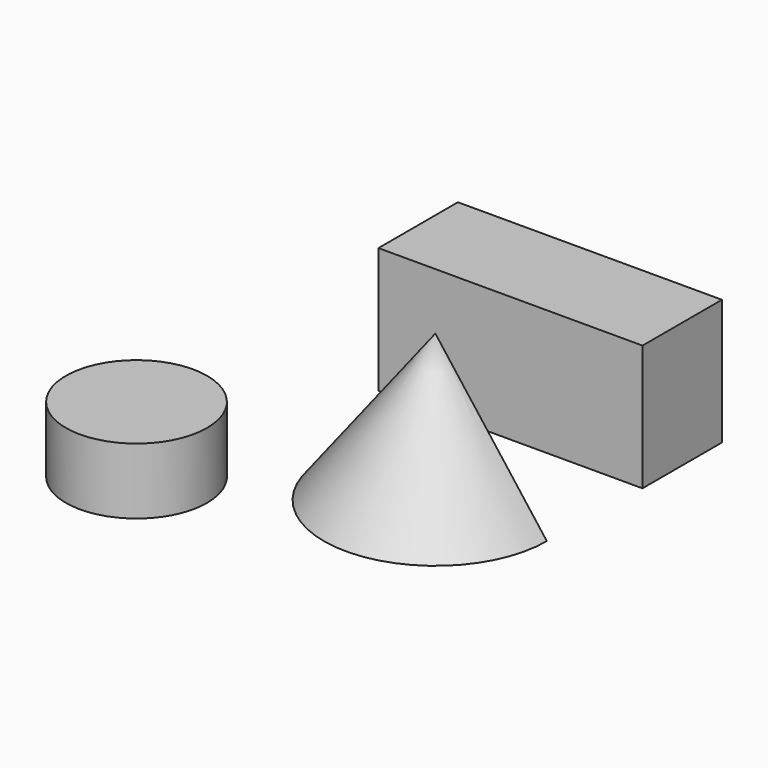
from build123d import *

# Parameters (mm, degrees)
F1_ANGLE_BACK = 180
F1_ANGLE      = 210
F2_W          = 38.2075756788
F2_H          = 48.3640171587
F3_DEPTH      = 101.6
F4_R          = 27.1714932238
F5_DEPTH      = 25.4


with BuildPart() as f1:
    # F0 (on Front) → F1 (revolve)
    with BuildSketch(Plane.XZ, mode=Mode.PRIVATE) as f1_sk:
        Polygon((42.910579592, 56.3772022724), (0, 0), (42.910579592, 0), align=None)
    revolve(f1_sk.sketch.rotate(Axis((42.910579592, 0, 28.1886011362), (0, 0, -1)), -F1_ANGLE_BACK), axis=Axis((42.910579592, 0, 28.1886011362), (0, 0, -1)), revolution_arc=F1_ANGLE)


with BuildPart() as f3:
    # F2 (on Right) → F3 (new body)
    with BuildSketch(Plane.YZ):
        with Locations((45.3808382154, 36.5022923797)):
            Rectangle(F2_W, F2_H)
    extrude(amount=F3_DEPTH)


with BuildPart() as f5:
    # F4 (on Top) → F5 (new body)
    with BuildSketch(Plane.XY):
        with Locations((-36.5940481424, -44.3640127778)):
            Circle(F4_R)
    extrude(amount=F5_DEPTH)


solid = Compound([f1.part, f3.part, f5.part])
